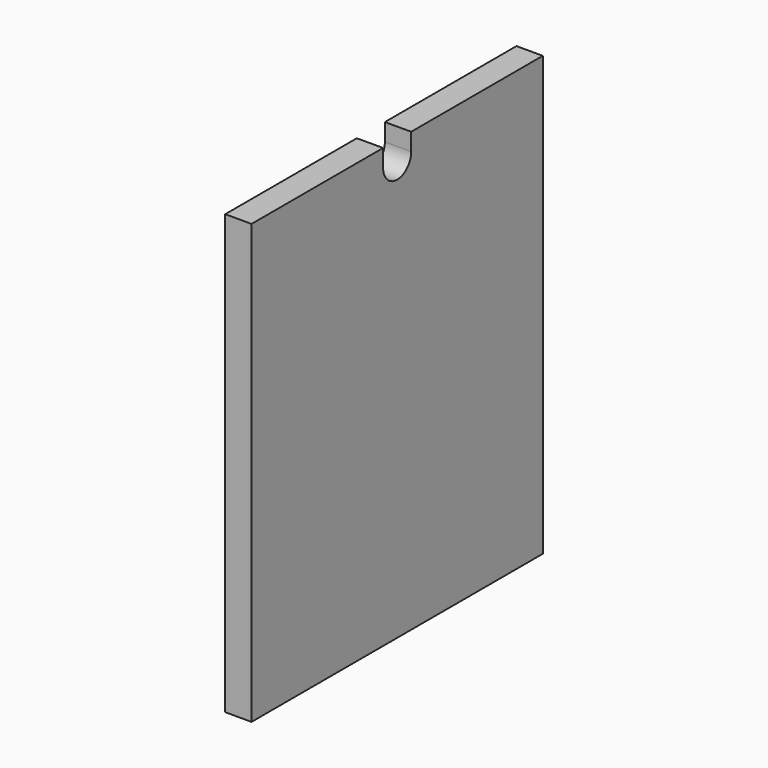
from build123d import *

# Parameters (mm, degrees)
F1_DEPTH = 19.05


with BuildPart() as f1:
    # F0 (on Right) → F1 (new body)
    with BuildSketch(Plane.YZ):
        with BuildLine():
            Line((131.826, -158.75), (131.826, 158.75))
            Line((131.826, 158.75), (12.7, 158.75))
            Line((12.7, 158.75), (12.7, 146.05))
            ThreePointArc((12.7, 146.05), (0, 133.35), (-12.7, 146.05))
            Line((-12.7, 146.05), (-12.7, 158.75))
            Line((-12.7, 158.75), (-131.826, 158.75))
            Line((-131.826, 158.75), (-131.826, -158.75))
            Line((-131.826, -158.75), (131.826, -158.75))
        make_face()
    extrude(amount=F1_DEPTH)


solid = f1.part
